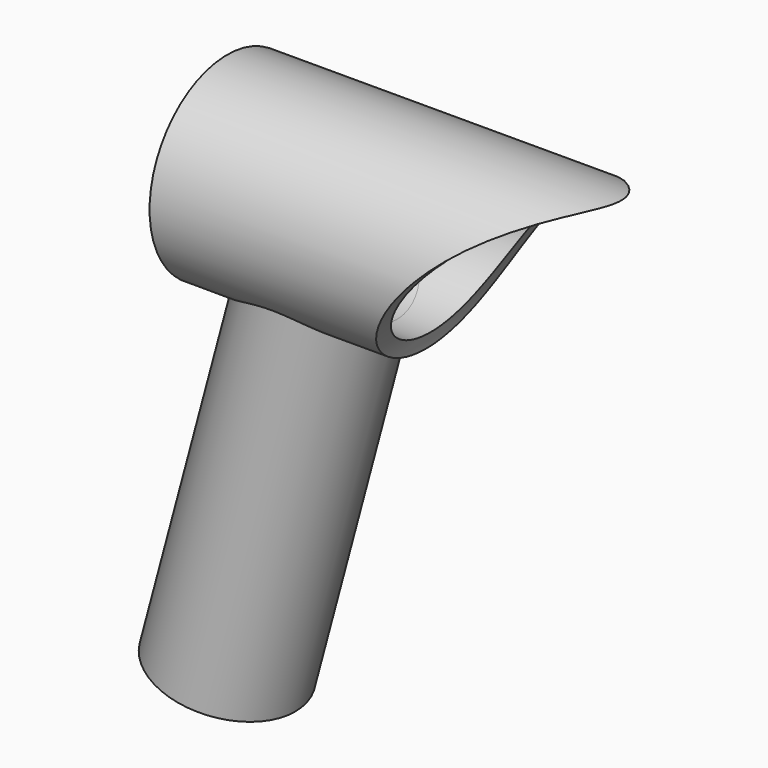
from build123d import *

# Parameters (mm, degrees)
F3_R      = 8
F3_R_2    = 6
F4_DEPTH  = 50
F5_R      = 11
F5_R_2    = 9.2
F6_DEPTH  = 50
F7_R      = 9.2
F8_DEPTH  = 57.7284067103
F9_R      = 29.9655409023
F10_DEPTH = 12.5


with BuildPart() as f4:
    # F3 (on 3pt) → F4 (new body)
    with BuildSketch(Plane(origin=(0, 0, 0), x_dir=(0.9659258263, 0, -0.2588190451), z_dir=(-0.2588190451, 0, -0.9659258263))):
        Circle(F3_R)
        Circle(F3_R_2, mode=Mode.SUBTRACT)
    extrude(amount=-F4_DEPTH)

    # F5 (on Right) → F6 (join)
    with BuildSketch(Plane.YZ):
        with Locations((0, 50)):
            Circle(F5_R)
        with Locations((0, 50)):
            Circle(F5_R_2, mode=Mode.SUBTRACT)
    extrude(amount=F6_DEPTH)

    # F7 (on face) → F8 (cut, through all)
    with BuildSketch(Plane.YZ.offset(50)):
        with Locations((0, 50)):
            Circle(F7_R)
    extrude(amount=-F8_DEPTH, mode=Mode.SUBTRACT)

    # F9 (on Front) → F10 (cut, symmetric)
    with BuildSketch(Plane.XZ):
        with Locations((51.6765899956, 31.8527929485)):
            Circle(F9_R)
    extrude(amount=F10_DEPTH, both=True, mode=Mode.SUBTRACT)


solid = f4.part
